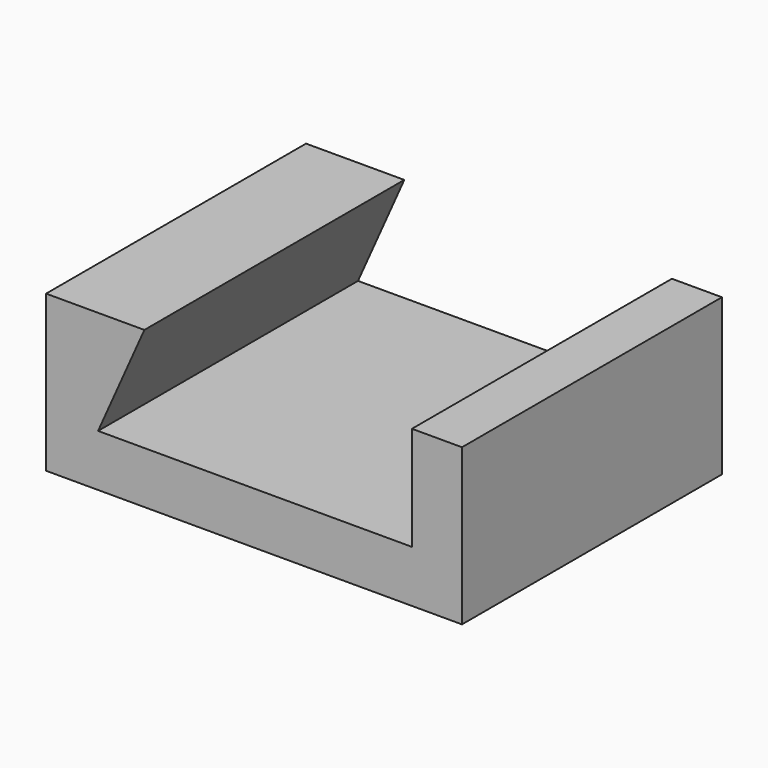
from build123d import *

# Parameters (mm, degrees)
F0_W     = 64
F0_H     = 50
F1_DEPTH = 24
F3_DEPTH = 50


with BuildPart() as f1:
    # F0 (on Top) → F1 (new body)
    with BuildSketch(Plane.XY):
        with Locations((6, 0)):
            Rectangle(F0_W, F0_H)
    extrude(amount=F1_DEPTH)

    # F2 (on face) → F3 (cut)
    with BuildSketch(Plane.XZ.offset(25)):
        Polygon((30.3, 8), (30.3, 24), (-10.876341, 24), (-18, 8), align=None)
    extrude(amount=-F3_DEPTH, mode=Mode.SUBTRACT)


solid = f1.part
